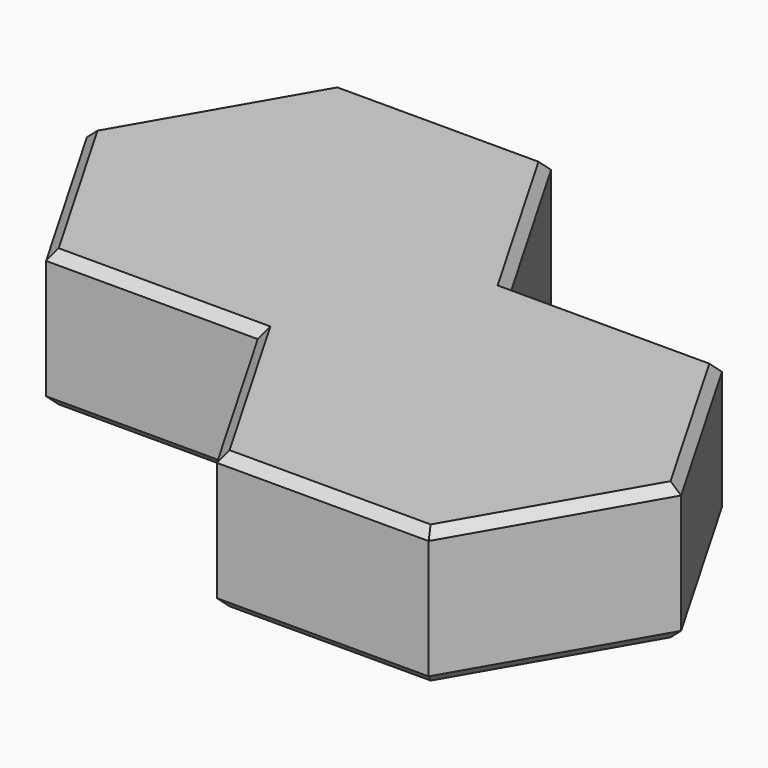
from build123d import *

# Parameters (mm, degrees)
PAD_DEPTH       = 3
SKETCH001_R     = 2.125
POCKET_DEPTH    = 2.15
CHAMFER_SIZE    = 0.2
CHAMFER001_SIZE = 0.2


with BuildPart() as part:
    # Sketch → Pad (new body)
    with BuildSketch(Plane.XY):
        Polygon((4.618802, 0), (2.309401, 4), (-2.309401, 4), (-4.618802, 0), (-2.309401, -4), (2.309401, -4), (4.618802, -8), (9.237604, -8), (11.547005, -4), (9.237604, 0), align=None)
    extrude(amount=PAD_DEPTH)

    # Sketch001 → Pocket (cut)
    with BuildSketch(Plane.XY):
        Circle(SKETCH001_R)
    extrude(amount=POCKET_DEPTH, mode=Mode.SUBTRACT)

    # Chamfer
    chamfer_edges = [part.edges().sort_by_distance(p)[0] for p in [
        (3.464102, 2, 3),
        (0, 4, 3),
        (-3.464102, 2, 3),
        (-3.464102, -2, 3),
        (0, -4, 3),
        (3.464102, -6, 3),
        (6.928203, -8, 3),
        (10.392305, -6, 3),
        (10.392305, -2, 3),
        (6.928203, 0, 3),
    ]]
    chamfer(chamfer_edges, length=CHAMFER_SIZE)

    # Chamfer001
    chamfer001_edges = [part.edges().sort_by_distance(p)[0] for p in [
        (3.464102, 2, 0),
        (6.928203, 0, 0),
        (0, 4, 0),
        (10.392305, -2, 0),
        (-3.464102, 2, 0),
        (10.392305, -6, 0),
        (-3.464102, -2, 0),
        (6.928203, -8, 0),
        (0, -4, 0),
        (3.464102, -6, 0),
        (-2.125, 0, 0),
    ]]
    chamfer(chamfer001_edges, length=CHAMFER001_SIZE)


solid = part.part
